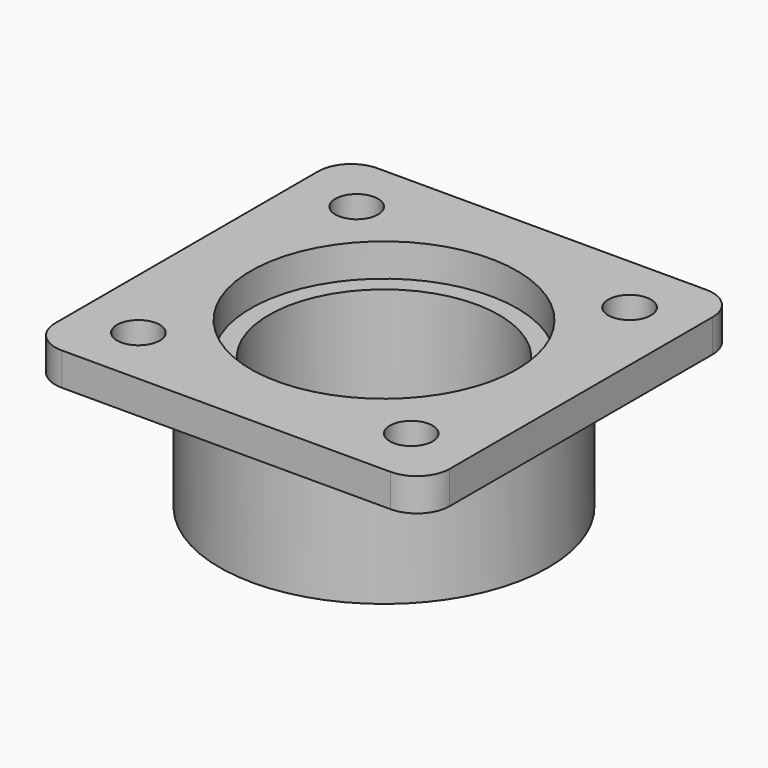
from build123d import *

# Parameters (mm, degrees)
F0_W     = 60
F0_H     = 60
F0_R     = 3.25
F0_R_2   = 20.25
F1_DEPTH = 5
F2_R     = 5
F3_R     = 19.5
F4_DEPTH = 5
F5_R     = 25
F5_R_2   = 17.5
F6_DEPTH = 20


with BuildPart() as f1:
    # F0 (on Top) → F1 (new body)
    with BuildSketch(Plane.XY):
        Rectangle(F0_W, F0_H)
        with Locations((-20.75, -20.75)):
            Circle(F0_R, mode=Mode.SUBTRACT)
        with Locations((20.75, -20.75)):
            Circle(F0_R, mode=Mode.SUBTRACT)
        with Locations((-20.75, 20.75)):
            Circle(F0_R, mode=Mode.SUBTRACT)
        Circle(F0_R_2, mode=Mode.SUBTRACT)
        with Locations((20.75, 20.75)):
            Circle(F0_R, mode=Mode.SUBTRACT)
    extrude(amount=F1_DEPTH)

    # F2
    f2_edges = [f1.edges().sort_by_distance(p)[0] for p in [
        (-30, -30, 2.5),
        (30, -30, 2.5),
        (30, 30, 2.5),
        (-30, 30, 2.5),
    ]]
    fillet(f2_edges, radius=F2_R)

    # F3 (on face) → F4 (cut)
    with BuildSketch(Plane.XY.offset(5)):
        Circle(F3_R)
    extrude(amount=-F4_DEPTH, mode=Mode.SUBTRACT)

    # F5 (on face) → F6 (join)
    with BuildSketch(Plane(origin=(0, 0, 0), x_dir=(1, 0, 0), z_dir=(0, 0, -1))):
        Circle(F5_R)
        Circle(F5_R_2, mode=Mode.SUBTRACT)
    extrude(amount=F6_DEPTH)


solid = f1.part
